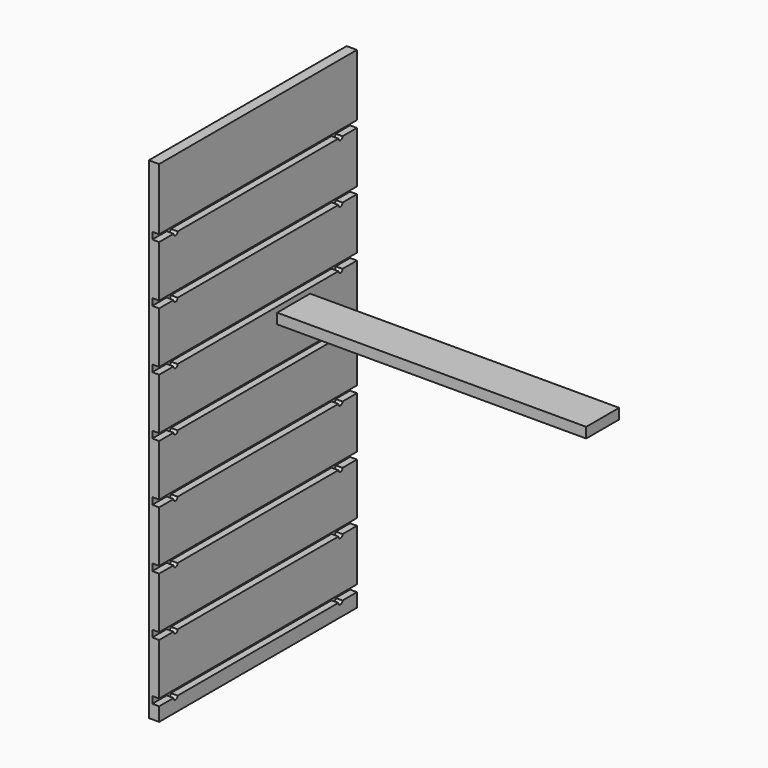
from build123d import *

# Parameters (mm, degrees)
F0_W     = 457.2
F0_H     = 908.05
F2_DEPTH = 19.05
F3_DEPTH = 12.7
F4_DEPTH = 12.7
F5_W     = 76.2
F5_H     = 19.05
F6_DEPTH = 571.5


with BuildPart() as f2:
    # F0 (on Right) → F2 (new body)
    with BuildSketch(Plane.YZ):
        with Locations((-166.1135266319, 5.1027350128)):
            Rectangle(F0_W, F0_H)
    extrude(amount=-F2_DEPTH)

    # F1 (on face) → F3 (cut)
    with BuildSketch(Plane.YZ):
        with BuildLine():
            Line((-394.7135266319, -410.8222649872), (-394.7135266319, -423.5222649872))
            Line((-394.7135266319, -423.5222649872), (-361.3760266319, -423.5222649872))
            ThreePointArc((-361.3760266319, -423.5222649872), (-356.6135266319, -428.2847649872), (-351.8510266319, -423.5222649872))
            Line((-351.8510266319, -423.5222649872), (19.6239733681, -423.5222649872))
            ThreePointArc((19.6239733681, -423.5222649872), (24.3864733681, -428.2847649872), (29.1489733681, -423.5222649872))
            Line((29.1489733681, -423.5222649872), (62.4864733681, -423.5222649872))
            Line((62.4864733681, -423.5222649872), (62.4864733681, -410.8222649872))
            Line((62.4864733681, -410.8222649872), (-394.7135266319, -410.8222649872))
        make_face()
    extrude(amount=-F3_DEPTH, mode=Mode.SUBTRACT)

    # F1 (on face) → F4 (cut)
    with BuildSketch(Plane.YZ):
        with BuildLine():
            Line((-394.7135266319, -302.8722649872), (-394.7135266319, -315.5722649872))
            Line((-394.7135266319, -315.5722649872), (-361.3760266319, -315.5722649872))
            ThreePointArc((-361.3760266319, -315.5722649872), (-356.6135266319, -320.3347649872), (-351.8510266319, -315.5722649872))
            Line((-351.8510266319, -315.5722649872), (19.6239733681, -315.5722649872))
            ThreePointArc((19.6239733681, -315.5722649872), (24.3864733681, -320.3347649872), (29.1489733681, -315.5722649872))
            Line((29.1489733681, -315.5722649872), (62.4864733681, -315.5722649872))
            Line((62.4864733681, -315.5722649872), (62.4864733681, -302.8722649872))
            Line((62.4864733681, -302.8722649872), (-394.7135266319, -302.8722649872))
        make_face()
        with BuildLine():
            Line((-394.7135266319, -194.9222649872), (-394.7135266319, -207.6222649872))
            Line((-394.7135266319, -207.6222649872), (-361.3760266319, -207.6222649872))
            ThreePointArc((-361.3760266319, -207.6222649872), (-356.6135266319, -212.3847649872), (-351.8510266319, -207.6222649872))
            Line((-351.8510266319, -207.6222649872), (19.6239733681, -207.6222649872))
            ThreePointArc((19.6239733681, -207.6222649872), (24.3864733681, -212.3847649872), (29.1489733681, -207.6222649872))
            Line((29.1489733681, -207.6222649872), (62.4864733681, -207.6222649872))
            Line((62.4864733681, -207.6222649872), (62.4864733681, -194.9222649872))
            Line((62.4864733681, -194.9222649872), (-394.7135266319, -194.9222649872))
        make_face()
        with BuildLine():
            Line((-394.7135266319, -86.9722649872), (-394.7135266319, -99.6722649872))
            Line((-394.7135266319, -99.6722649872), (-361.3760266319, -99.6722649872))
            ThreePointArc((-361.3760266319, -99.6722649872), (-356.6135266319, -104.4347649872), (-351.8510266319, -99.6722649872))
            Line((-351.8510266319, -99.6722649872), (19.6239733681, -99.6722649872))
            ThreePointArc((19.6239733681, -99.6722649872), (24.3864733681, -104.4347649872), (29.1489733681, -99.6722649872))
            Line((29.1489733681, -99.6722649872), (62.4864733681, -99.6722649872))
            Line((62.4864733681, -99.6722649872), (62.4864733681, -86.9722649872))
            Line((62.4864733681, -86.9722649872), (-394.7135266319, -86.9722649872))
        make_face()
        with BuildLine():
            Line((-394.7135266319, 20.9777350128), (-394.7135266319, 8.2777350128))
            Line((-394.7135266319, 8.2777350128), (-361.3760266319, 8.2777350128))
            ThreePointArc((-361.3760266319, 8.2777350128), (-356.6135266319, 3.5152350128), (-351.8510266319, 8.2777350128))
            Line((-351.8510266319, 8.2777350128), (19.6239733681, 8.2777350128))
            ThreePointArc((19.6239733681, 8.2777350128), (24.3864733681, 3.5152350128), (29.1489733681, 8.2777350128))
            Line((29.1489733681, 8.2777350128), (62.4864733681, 8.2777350128))
            Line((62.4864733681, 8.2777350128), (62.4864733681, 20.9777350128))
            Line((62.4864733681, 20.9777350128), (-394.7135266319, 20.9777350128))
        make_face()
        with BuildLine():
            Line((-394.7135266319, 128.9277350128), (-394.7135266319, 116.2277350128))
            Line((-394.7135266319, 116.2277350128), (-361.3760266319, 116.2277350128))
            ThreePointArc((-361.3760266319, 116.2277350128), (-356.6135266319, 111.4652350128), (-351.8510266319, 116.2277350128))
            Line((-351.8510266319, 116.2277350128), (19.6239733681, 116.2277350128))
            ThreePointArc((19.6239733681, 116.2277350128), (24.3864733681, 111.4652350128), (29.1489733681, 116.2277350128))
            Line((29.1489733681, 116.2277350128), (62.4864733681, 116.2277350128))
            Line((62.4864733681, 116.2277350128), (62.4864733681, 128.9277350128))
            Line((62.4864733681, 128.9277350128), (-394.7135266319, 128.9277350128))
        make_face()
        with BuildLine():
            Line((-394.7135266319, 236.8777350128), (-394.7135266319, 224.1777350128))
            Line((-394.7135266319, 224.1777350128), (-361.3760266319, 224.1777350128))
            ThreePointArc((-361.3760266319, 224.1777350128), (-356.6135266319, 219.4152350128), (-351.8510266319, 224.1777350128))
            Line((-351.8510266319, 224.1777350128), (19.6239733681, 224.1777350128))
            ThreePointArc((19.6239733681, 224.1777350128), (24.3864733681, 219.4152350128), (29.1489733681, 224.1777350128))
            Line((29.1489733681, 224.1777350128), (62.4864733681, 224.1777350128))
            Line((62.4864733681, 224.1777350128), (62.4864733681, 236.8777350128))
            Line((62.4864733681, 236.8777350128), (-394.7135266319, 236.8777350128))
        make_face()
        with BuildLine():
            Line((-394.7135266319, 344.8277350128), (-394.7135266319, 332.1277350128))
            Line((-394.7135266319, 332.1277350128), (-361.3760266319, 332.1277350128))
            ThreePointArc((-361.3760266319, 332.1277350128), (-356.6135266319, 327.3652350128), (-351.8510266319, 332.1277350128))
            Line((-351.8510266319, 332.1277350128), (19.6239733681, 332.1277350128))
            ThreePointArc((19.6239733681, 332.1277350128), (24.3864733681, 327.3652350128), (29.1489733681, 332.1277350128))
            Line((29.1489733681, 332.1277350128), (62.4864733681, 332.1277350128))
            Line((62.4864733681, 332.1277350128), (62.4864733681, 344.8277350128))
            Line((62.4864733681, 344.8277350128), (-394.7135266319, 344.8277350128))
        make_face()
    extrude(amount=-F4_DEPTH, mode=Mode.SUBTRACT)


with BuildPart() as f6:
    # F5 (on Right) → F6 (new body)
    with BuildSketch(Plane.YZ):
        with Locations((-83.9446932077, 96.8780869972)):
            Rectangle(F5_W, F5_H)
    extrude(amount=F6_DEPTH)


solid = Compound([f2.part, f6.part])
